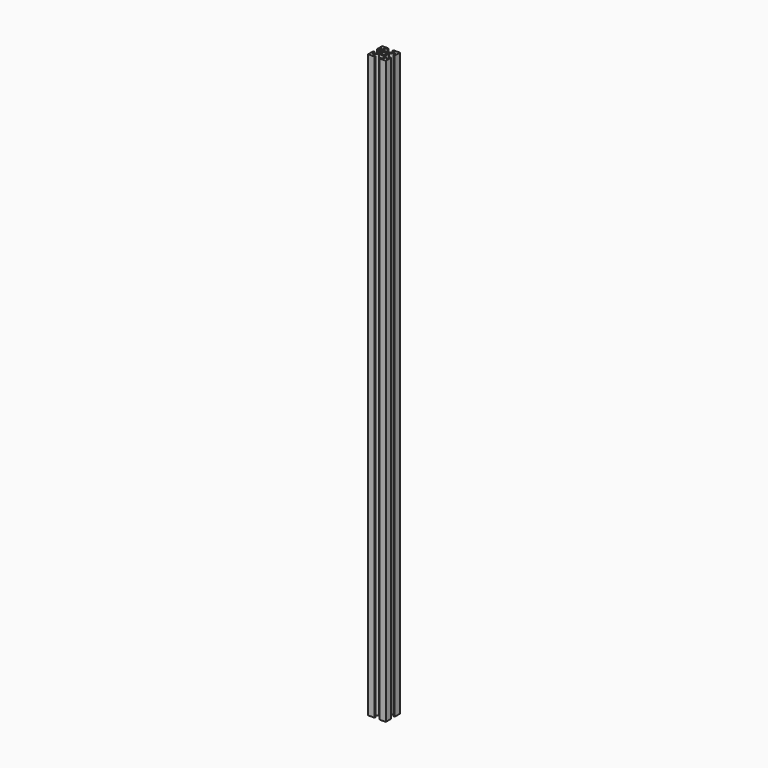
from build123d import *

# Parameters (mm, degrees)
F1_DEPTH = 658.726


with BuildPart() as f1:
    # F0 (on Top) → F1 (new body)
    with BuildSketch(Plane.XY):
        Polygon((10, 2.63), (10, 10), (2.63, 10), (2.63, 8.5), (5.995, 8.5), (5.995, 7.05566), (2.59934, 3.66), (-2.59934, 3.66), (-5.995, 7.05566), (-5.995, 8.5), (-2.63, 8.5), (-2.63, 10), (-10, 10), (-10, 2.63), (-8.5, 2.63), (-8.5, 5.995), (-7.05566, 5.995), (-3.66, 2.59934), (-3.66, -2.59934), (-7.05566, -5.995), (-8.5, -5.995), (-8.5, -2.63), (-10, -2.63), (-10, -10), (-2.63, -10), (-2.63, -8.5), (-5.995, -8.5), (-5.995, -7.05566), (-2.59934, -3.66), (2.59934, -3.66), (5.995, -7.05566), (5.995, -8.5), (2.63, -8.5), (2.63, -10), (10, -10), (10, -2.63), (8.5, -2.63), (8.5, -5.995), (7.05566, -5.995), (3.66, -2.59934), (3.66, 2.59934), (7.05566, 5.995), (8.5, 5.995), (8.5, 2.63), align=None)
        with BuildLine():
            ThreePointArc((1.886053, 0.912048), (2.042095, 0.467838), (2.095, 0))
            ThreePointArc((2.095, 0), (2.042095, -0.467838), (1.886053, -0.912048))
            ThreePointArc((1.886053, -0.912048), (2.102098, -1.161042), (2.179889, -1.481389))
            ThreePointArc((2.179889, -1.481389), (1.693777, -2.146816), (0.912048, -1.886053))
            ThreePointArc((0.912048, -1.886053), (0, -2.095), (-0.912048, -1.886053))
            ThreePointArc((-0.912048, -1.886053), (-1.975303, -1.975303), (-1.886053, -0.912048))
            ThreePointArc((-1.886053, -0.912048), (-2.095, 0), (-1.886053, 0.912048))
            ThreePointArc((-1.886053, 0.912048), (-1.975303, 1.975303), (-0.912048, 1.886053))
            ThreePointArc((-0.912048, 1.886053), (0, 2.095), (0.912048, 1.886053))
            ThreePointArc((0.912048, 1.886053), (1.693777, 2.146816), (2.179889, 1.481389))
            ThreePointArc((2.179889, 1.481389), (2.102098, 1.161042), (1.886053, 0.912048))
        make_face(mode=Mode.SUBTRACT)
    extrude(amount=F1_DEPTH)


solid = f1.part
